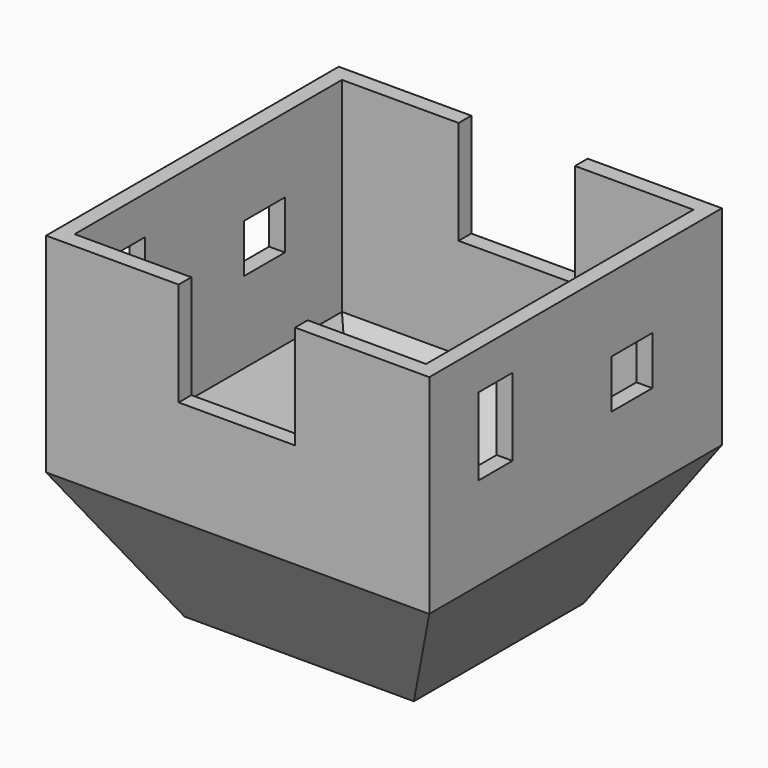
from build123d import *

# Parameters (mm, degrees)
F0_W      = 87.4929502606
F0_H      = 80.8734223247
F1_DEPTH  = 50.8
F1_TAPER  = -30
F3_W      = 88.9319777489
F3_H      = 89.219789952
F2_W      = 146.1517376103
F2_H      = 139.5322096743
F4_DEPTH  = 79.502
F6_SCALE  = 0.21
F7_T      = -1.27
F8_W      = 4.72650351
F8_H      = 8.3095808529
F8_W_2    = 4.5930747874
F9_DEPTH  = 29.3027641316
F10_W     = 3.3891107887
F10_H     = 6.2133707106
F10_W_2   = 4.0794850793
F10_H_2   = 3.8912016898
F11_DEPTH = 30.6928649982


with BuildPart() as f1:
    # F0 (on Top) → F1 (new body)
    with BuildSketch(Plane.XY):
        with Locations((0, -0.7195137441)):
            Rectangle(F0_W, F0_H)
    extrude(amount=F1_DEPTH, taper=F1_TAPER)

    # F3 (on face) + F2 (on face) → F4 (join)
    with BuildSketch(Plane.XY.offset(50.8)):
        with Locations((1.0073184967, -1.4390293509)):
            Rectangle(F3_W, F3_H)
    with BuildSketch(Plane.XY.offset(50.8)):
        with Locations((0, -0.7195137441)):
            Rectangle(F2_W, F2_H)
    extrude(amount=F4_DEPTH)


with BuildPart() as f1_1:
    # F6: moved
    add(f1.part.scale(F6_SCALE))

    # F7
    f7_openings = [f1_1.faces().sort_by_distance(p)[0] for p in [
        (0, -0.151098, 27.36342),
    ]]
    offset(amount=F7_T, openings=f7_openings)

    # F8 (on face) → F9 (cut, through all)
    with BuildSketch(Plane.XZ.offset(14.8019799021)):
        with Locations((-2.363251755, 23.2086295735)):
            Rectangle(F8_W, F8_H)
        with Locations((2.2965373937, 23.2086295735)):
            Rectangle(F8_W_2, F8_H)
    extrude(amount=-F9_DEPTH, mode=Mode.SUBTRACT)

    # F10 (on face) → F11 (cut, through all)
    with BuildSketch(Plane(origin=(-15.3459324491, 0, 0), x_dir=(0, -1, 0), z_dir=(-1, 0, 0))):
        with Locations((8.1630637869, 21.1822334677)):
            Rectangle(F10_W, F10_H)
        with Locations((-5.4875212954, 19.4562980905)):
            Rectangle(F10_W_2, F10_H_2)
    extrude(amount=-F11_DEPTH, mode=Mode.SUBTRACT)


solid = f1_1.part
